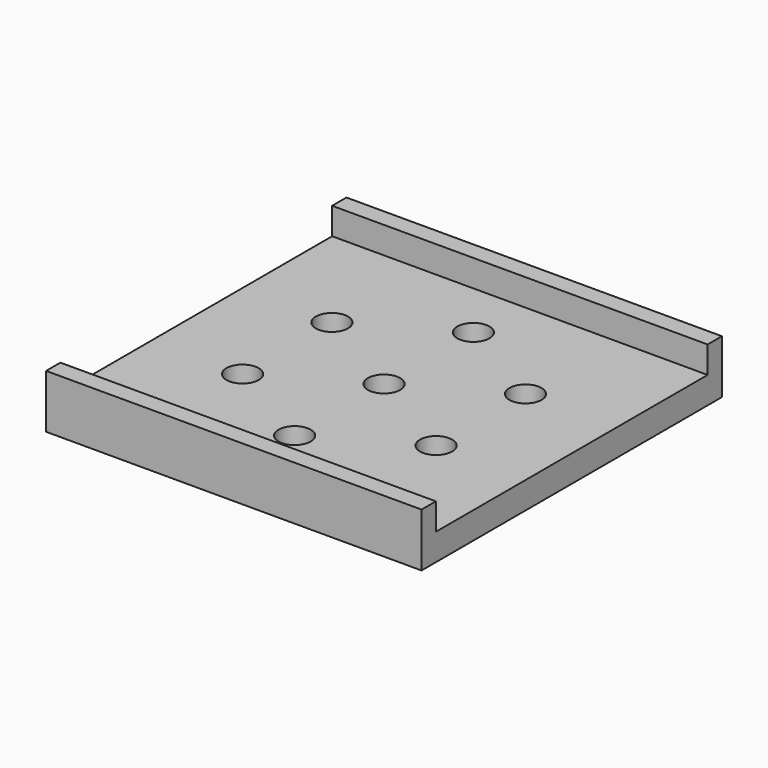
from build123d import *

# Parameters (mm, degrees)
SKETCH_R     = 1.8
PAD_DEPTH    = 3
SKETCH001_W  = 42
SKETCH001_H  = 2
PAD001_DEPTH = 3


with BuildPart() as part:
    # Sketch → Pad (new body)
    with BuildSketch(Plane.XY):
        Polygon((-21, 21), (21, 21), (21, -21), (0, -21), (-21, -21), (-21, 0), align=None)
        with Locations((0, 12.5)):
            Circle(SKETCH_R, mode=Mode.SUBTRACT)
        with Locations((10.825318, 6.25)):
            Circle(SKETCH_R, mode=Mode.SUBTRACT)
        with Locations((10.825318, -6.25)):
            Circle(SKETCH_R, mode=Mode.SUBTRACT)
        with Locations((0, -12.5)):
            Circle(SKETCH_R, mode=Mode.SUBTRACT)
        with Locations((-10.825318, -6.25)):
            Circle(SKETCH_R, mode=Mode.SUBTRACT)
        with Locations((-10.825318, 6.25)):
            Circle(SKETCH_R, mode=Mode.SUBTRACT)
        Circle(SKETCH_R, mode=Mode.SUBTRACT)
    extrude(amount=PAD_DEPTH)

    # Sketch001 → Pad001 (new body)
    with BuildSketch(Plane.XY.offset(3)):
        Polygon((-21, 21), (21, 21), (21, 19), (0, 19), (-21, 19), align=None)
        with Locations((0, -20)):
            Rectangle(SKETCH001_W, SKETCH001_H)
    extrude(amount=PAD001_DEPTH)


solid = part.part
